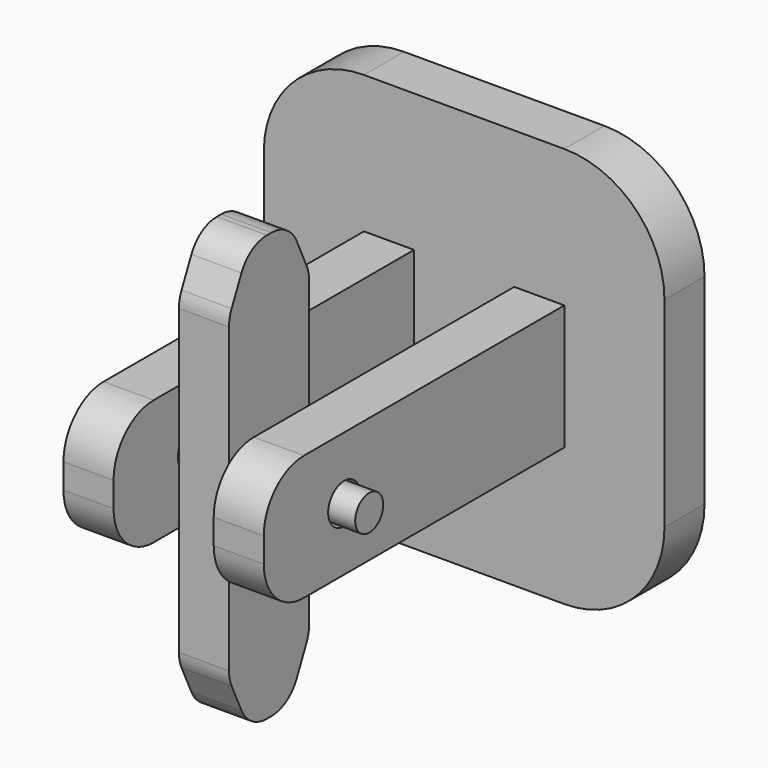
from build123d import *

# Parameters (mm, degrees)
F0_W        = 20.32
F0_H        = 20.32
F1_DEPTH    = 2.54
F2_W        = 2.54
F2_H        = 6.35
F3_DEPTH    = 19.05
F4_R        = 1.016
F5_DEPTH    = 20.321
F6_W        = 5.08
F6_H        = 21.59
F7_DEPTH    = 1.27
F8_R        = 0.889
F9_DEPTH    = 6.35
F10_R       = 2.54
F11_SIZE2   = 2.723523789
F11_SIZE    = 1.27
F11_2_SIZE2 = 2.723523789
F11_2_SIZE  = 1.27
F12_R       = 1.778
F13_R       = 5.08


with BuildPart() as f1:
    # F0 (on Front) → F1 (new body)
    with BuildSketch(Plane.XZ):
        Rectangle(F0_W, F0_H)
    extrude(amount=F1_DEPTH)

    # F2 (on face) → F3 (join)
    with BuildSketch(Plane.XZ.offset(2.54)):
        with Locations((-3.81, 0)):
            Rectangle(F2_W, F2_H)
        with Locations((3.81, 0)):
            Rectangle(F2_W, F2_H)
    extrude(amount=F3_DEPTH)

    # F4 (on face) → F5 (cut, through all)
    with BuildSketch(Plane.YZ.offset(10.16)):
        with Locations((-16.4937997073, 0)):
            Circle(F4_R)
    extrude(amount=-F5_DEPTH, mode=Mode.SUBTRACT)

    # F10
    f10_edges = [f1.edges().sort_by_distance(p)[0] for p in [
        (3.81, -21.59, 3.175),
        (-3.81, -21.59, 3.175),
        (-3.81, -21.59, -3.175),
        (3.81, -21.59, -3.175),
    ]]
    fillet(f10_edges, radius=F10_R)

    # F13
    f13_edges = [f1.edges().sort_by_distance(p)[0] for p in [
        (10.16, -1.27, 10.16),
        (-10.16, -1.27, 10.16),
        (10.16, -1.27, -10.16),
        (-10.16, -1.27, -10.16),
    ]]
    fillet(f13_edges, radius=F13_R)


with BuildPart() as f7:
    # F6 (on Right) → F7 (new body, symmetric)
    with BuildSketch(Plane.YZ):
        with Locations((-16.4937997073, 0)):
            Rectangle(F6_W, F6_H)
    extrude(amount=F7_DEPTH, both=True)

    # F8 (on Right) → F9 (join, symmetric)
    with BuildSketch(Plane.YZ):
        with Locations((-16.4937997073, 0)):
            Circle(F8_R)
    extrude(amount=F9_DEPTH, both=True)

    # F11
    f11_edges = [f7.edges().sort_by_distance(p)[0] for p in [
        (0, -13.9538, 10.795),
        (0, -19.0338, 10.795),
    ]]
    f11_side = f7.faces().sort_by_distance((0, -16.4938, 10.795))[0]
    chamfer(f11_edges, length=F11_SIZE, length2=F11_SIZE2, reference=f11_side)

    # F11#2
    f11_2_edges = [f7.edges().sort_by_distance(p)[0] for p in [
        (0, -19.0338, -10.795),
        (0, -13.9538, -10.795),
    ]]
    f11_2_side = f7.faces().sort_by_distance((0, -16.4938, -10.795))[0]
    chamfer(f11_2_edges, length=F11_2_SIZE, length2=F11_2_SIZE2, reference=f11_2_side)

    # F12
    f12_edges = [f7.edges().sort_by_distance(p)[0] for p in [
        (0, -13.9538, 8.071476),
        (0, -15.2238, 10.795),
        (0, -17.7638, 10.795),
        (0, -19.0338, 8.071476),
        (0, -13.9538, -8.071476),
        (0, -15.2238, -10.795),
        (0, -17.7638, -10.795),
        (0, -19.0338, -8.071476),
    ]]
    fillet(f12_edges, radius=F12_R)


solid = Compound([f1.part, f7.part])
